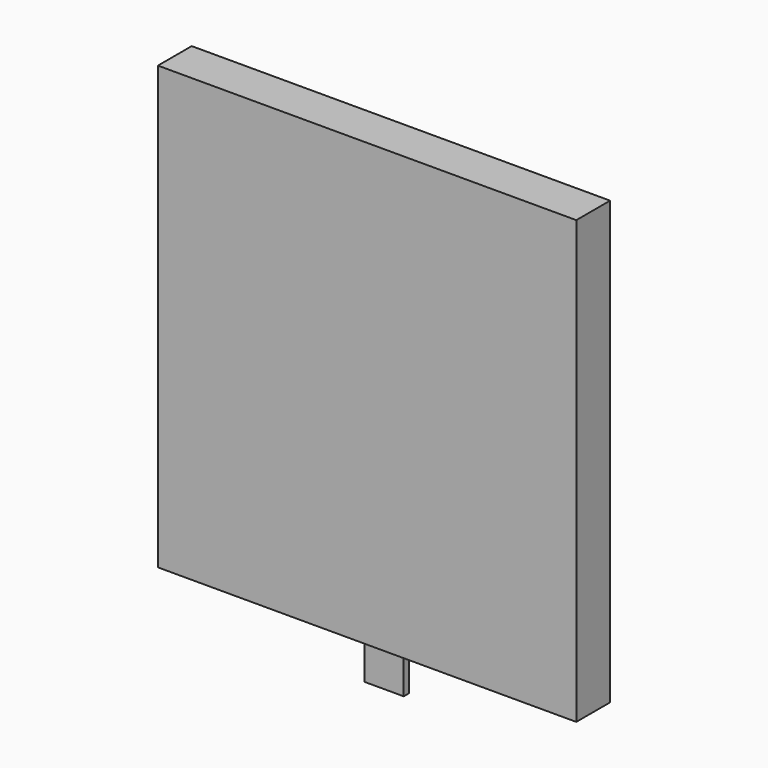
from build123d import *

# Parameters (mm, degrees)
F0_W     = 25.1511335373
F0_H     = 26.5552401543
F1_DEPTH = 2.54
F2_W     = 2.3688124493
F2_H     = 0.4084529355
F3_DEPTH = 2.8681720141
F4_W     = 0.3632875159
F4_H     = 0.8602547459
F5_DEPTH = 0.7417961024


with BuildPart() as f1:
    # F0 (on Front) → F1 (new body)
    with BuildSketch(Plane.XZ):
        Rectangle(F0_W, F0_H)
    extrude(amount=F1_DEPTH)

    # F2 (on face) → F3 (join)
    with BuildSketch(Plane(origin=(0, 0, -13.2776200771), x_dir=(1, 0, 0), z_dir=(0, 0, -1))):
        with Locations((0, 1.0644812137)):
            Rectangle(F2_W, F2_H)
    extrude(amount=F3_DEPTH)

    # F4 (on face) → F5 (join)
    with BuildSketch(Plane(origin=(0, 0, -16.1457920913), x_dir=(1, 0, 0), z_dir=(0, 0, -1))):
        with Locations((-0.0494890846, 0.430127373)):
            Rectangle(F4_W, F4_H)
    extrude(amount=-F5_DEPTH)


solid = f1.part
